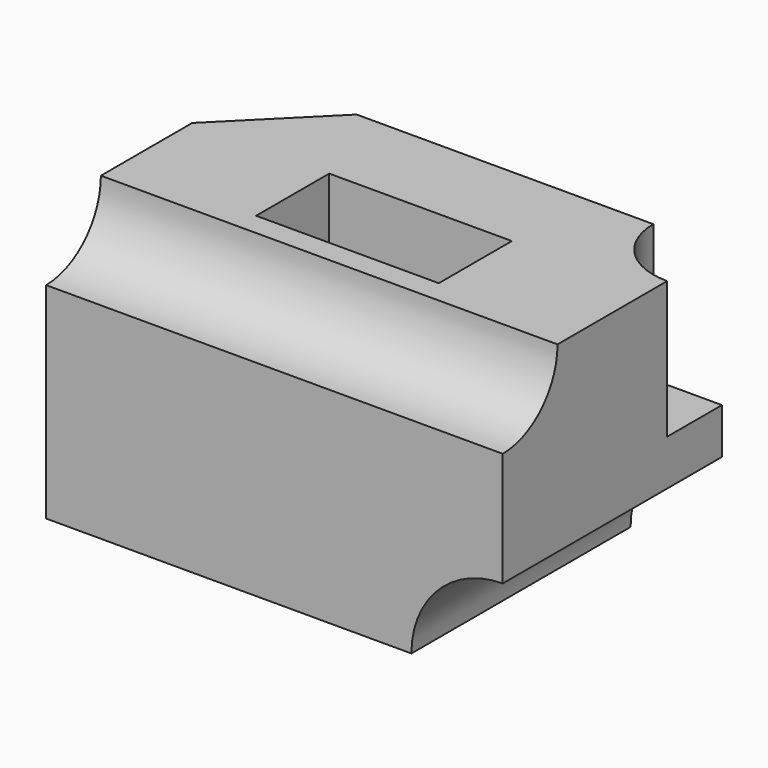
from build123d import *

# Parameters (mm, degrees)
F0_W      = 50
F0_H      = 30
F1_DEPTH  = 30
F2_W      = 20
F2_H      = 10
F3_DEPTH  = 20
F4_SIZE   = 10
F5_R      = 7.5
F6_DEPTH  = 15
F7_R      = 7.5
F8_DEPTH  = 50
F9_R      = 10
F10_DEPTH = 30


with BuildPart() as f1:
    # F0 (on Front) → F1 (new body)
    with BuildSketch(Plane.XZ):
        with Locations((25, 15)):
            Rectangle(F0_W, F0_H)
    extrude(amount=-F1_DEPTH)

    # F2 (on face) → F3 (cut)
    with BuildSketch(Plane.XY.offset(30)):
        with Locations((25, 15)):
            Rectangle(F2_W, F2_H)
    extrude(amount=-F3_DEPTH, mode=Mode.SUBTRACT)

    # F4
    f4_edges = [f1.edges().sort_by_distance(p)[0] for p in [
        (0, 30, 15),
    ]]
    chamfer(f4_edges, length=F4_SIZE)

    # F5 (on face) → F6 (cut)
    with BuildSketch(Plane.XY.offset(30)):
        with Locations((50, 30)):
            Circle(F5_R)
    extrude(amount=-F6_DEPTH, mode=Mode.SUBTRACT)

    # F7 (on face) → F8 (cut, through all)
    with BuildSketch(Plane.YZ.offset(50)):
        with Locations((0, 30)):
            Circle(F7_R)
    extrude(amount=-F8_DEPTH, mode=Mode.SUBTRACT)

    # F9 (on face) → F10 (cut, through all)
    with BuildSketch(Plane(origin=(0, 30, 0), x_dir=(-1, 0, 0), z_dir=(0, 1, 0))):
        with Locations((-50, 0)):
            Circle(F9_R)
    extrude(amount=-F10_DEPTH, mode=Mode.SUBTRACT)


solid = f1.part
